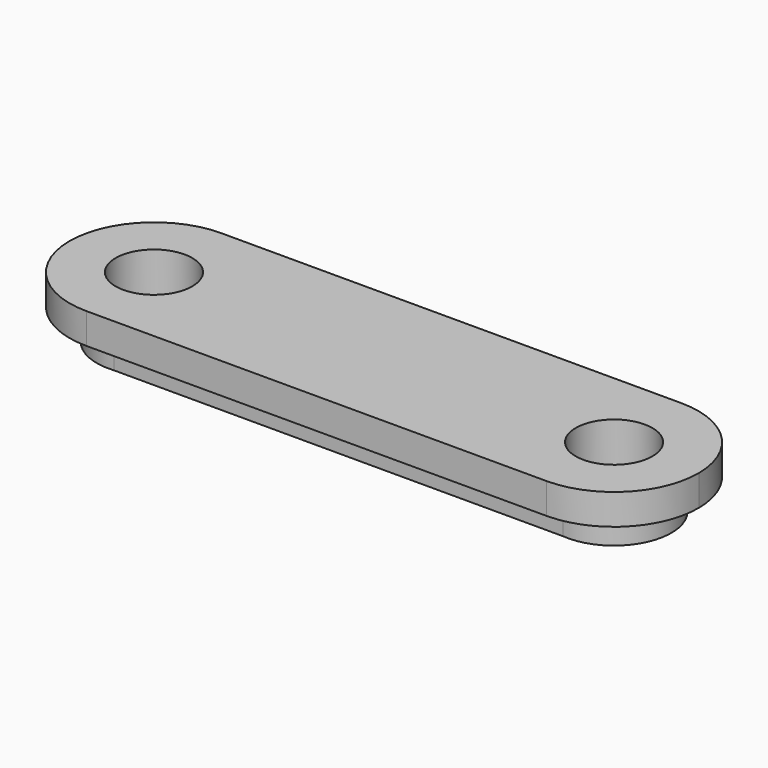
from build123d import *

# Parameters (mm, degrees)
F1_DEPTH = 2
F3_DEPTH = 2
F4_R     = 2.5
F5_DEPTH = 4.001


with BuildPart() as f1:
    # F0 (on Top) → F1 (new body)
    with BuildSketch(Plane.XY):
        with BuildLine():
            ThreePointArc((20.499703, 0.052712), (18.867793, 3.902856), (15.000031, 5.492559))
            Line((15.000031, 5.492559), (-14.999969, 5.492559))
            ThreePointArc((-14.999969, 5.492559), (-18.889056, 3.881647), (-20.499969, -0.007441))
            ThreePointArc((-20.499969, -0.007441), (-18.889056, -3.896528), (-14.999969, -5.507441))
            Line((-14.999969, -5.507441), (15.000031, -5.507441))
            ThreePointArc((15.000031, -5.507441), (18.910328, -3.875202), (20.499703, 0.052712))
        make_face()
    extrude(amount=F1_DEPTH)

    # F2 (on face) → F3 (join)
    with BuildSketch(Plane(origin=(0, 0, 0), x_dir=(1, 0, 0), z_dir=(0, 0, -1))):
        with BuildLine():
            Line((14.637494, 3.734077), (-14.637494, 3.734077))
            ThreePointArc((-14.637494, 3.734077), (-18.732699, 0), (-14.637494, -3.734077))
            Line((-14.637494, -3.734077), (14.637494, -3.734077))
            ThreePointArc((14.637494, -3.734077), (18.732699, 0), (14.637494, 3.734077))
        make_face()
    extrude(amount=F3_DEPTH)

    # F4 (on face) → F5 (cut, through all)
    with BuildSketch(Plane.XY.offset(2)):
        with Locations((-14.999969, -0.007441)):
            Circle(F4_R)
        with Locations((15.000031, -0.007441)):
            Circle(F4_R)
    extrude(amount=-F5_DEPTH, mode=Mode.SUBTRACT)


solid = f1.part
